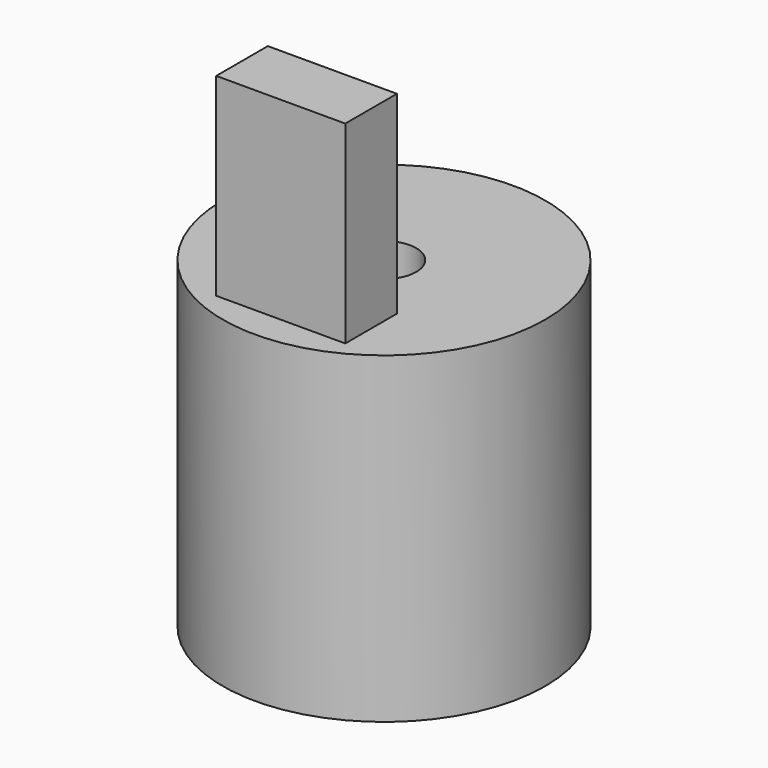
from build123d import *

# Parameters (mm, degrees)
F0_R     = 2.5
F1_DEPTH = 5
F2_W     = 2
F2_H     = 1
F3_DEPTH = 3
F4_R     = 0.5
F5_DEPTH = 25


with BuildPart() as f1:
    # F0 (on Top) → F1 (new body)
    with BuildSketch(Plane.XY):
        Circle(F0_R)
    extrude(amount=F1_DEPTH)

    # F2 (on face) → F3 (join)
    with BuildSketch(Plane.XY.offset(5)):
        with Locations((0, -1.5)):
            Rectangle(F2_W, F2_H)
    extrude(amount=F3_DEPTH)

    # F4 (on face) → F5 (cut)
    with BuildSketch(Plane.XY.offset(5)):
        Circle(F4_R)
    extrude(amount=-F5_DEPTH, mode=Mode.SUBTRACT)


solid = f1.part
